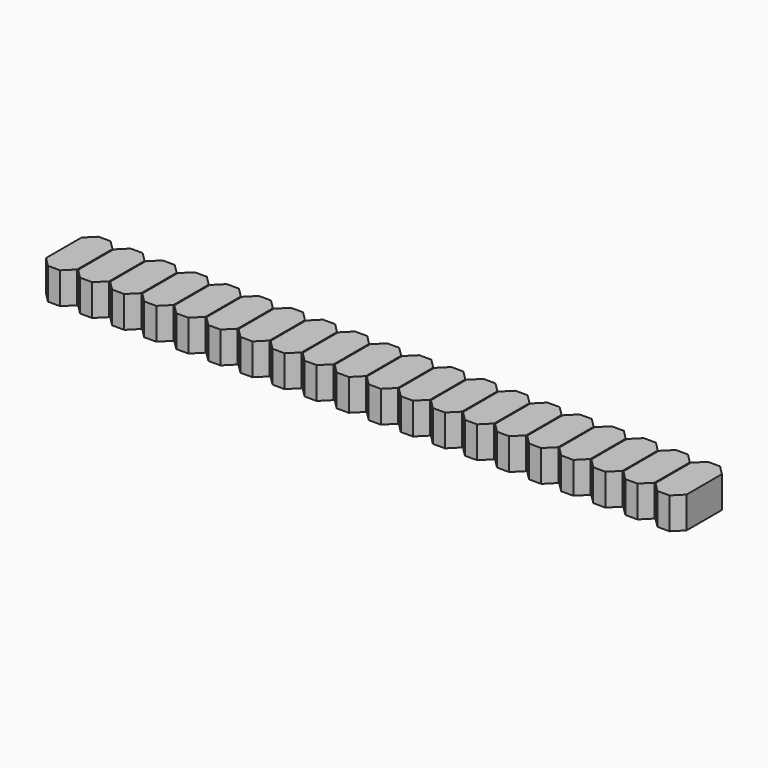
from build123d import *

# Parameters (mm, degrees)
BOX022_W         = 48.26
BOX022_H         = 3.2
BOX022_DEPTH     = 2.3
BOX021_W         = 2.46
BOX021_H         = 5
BOX021_DEPTH     = 2.5
CHAMFER002_SIZE  = 0.75
ARRAY008_X_COUNT = 20
ARRAY008_X_PITCH = 2.54


with BuildPart() as cube:
    # Box022 → Box022 (new body)
    with BuildSketch(Plane(origin=(0, -0.33, 0.1), x_dir=(1, 0, 0), z_dir=(0, 0, 1))):
        with Locations((24.13, 1.6)):
            Rectangle(BOX022_W, BOX022_H)
    extrude(amount=BOX022_DEPTH)


with BuildPart() as body:
    # Box021 → Box021 (new body)
    with BuildSketch(Plane(origin=(-1.23, -1.23, 0), x_dir=(1, 0, 0), z_dir=(0, 0, 1))):
        with Locations((1.23, 2.5)):
            Rectangle(BOX021_W, BOX021_H)
    extrude(amount=BOX021_DEPTH)

    # Chamfer002
    chamfer002_edges = [body.edges().sort_by_distance(p)[0] for p in [
        (-1.23, -1.23, 1.25),
        (-1.23, 3.77, 1.25),
        (1.23, -1.23, 1.25),
        (1.23, 3.77, 1.25),
    ]]
    chamfer(chamfer002_edges, length=CHAMFER002_SIZE)

    # Array008 X: Body ×20


with BuildPart() as body_1:
    add(body.part)
    with Locations(*[(i * ARRAY008_X_PITCH, 0, 0) for i in range(1, ARRAY008_X_COUNT)]):
        add(body.part)

    # Fusion020: union Cube
    add(cube.part)


solid = body_1.part
